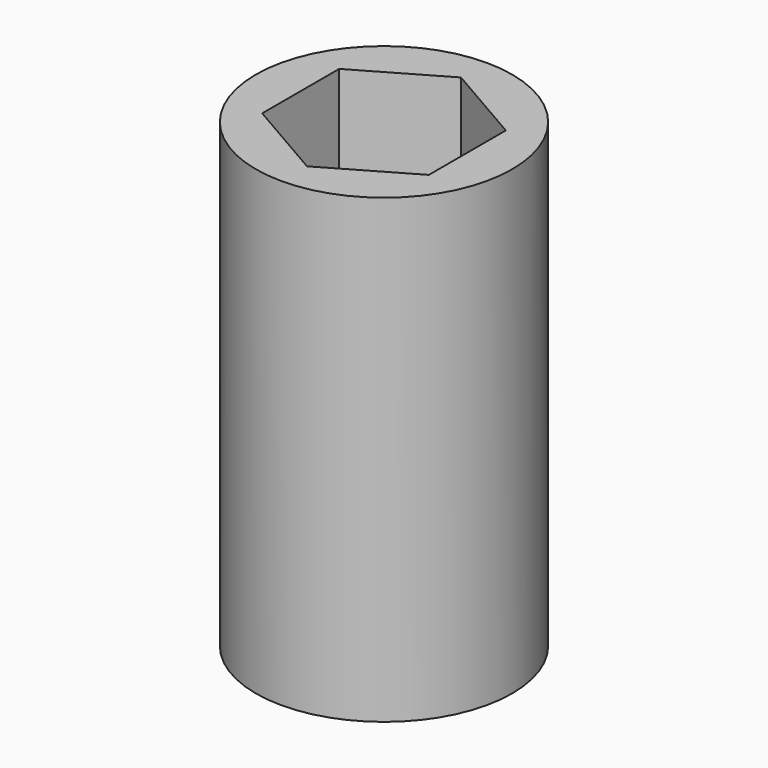
from build123d import *

# Parameters (mm, degrees)
F0_R     = 50
F1_DEPTH = 180
F2_R     = 25
F3_DEPTH = 180
F5_DEPTH = 50
F6_W     = 60
F6_H     = 60
F7_DEPTH = 50


with BuildPart() as f1:
    # F0 (on Top) → F1 (new body)
    with BuildSketch(Plane.XY):
        Circle(F0_R)
    extrude(amount=F1_DEPTH)

    # F2 (on Top) → F3 (cut, through all)
    with BuildSketch(Plane.XY):
        Circle(F2_R)
    extrude(amount=F3_DEPTH, mode=Mode.SUBTRACT)

    # F4 (on face) → F5 (cut)
    with BuildSketch(Plane.XY.offset(180)):
        Polygon((-32.5, 18.763884), (-32.5, -18.763884), (0, -37.527767), (32.5, -18.763884), (32.5, 18.763884), (0, 37.527767), align=None)
    extrude(amount=-F5_DEPTH, mode=Mode.SUBTRACT)

    # F6 (on face) → F7 (cut)
    with BuildSketch(Plane(origin=(0, 0, 0), x_dir=(1, 0, 0), z_dir=(0, 0, -1))):
        Rectangle(F6_W, F6_H)
    extrude(amount=-F7_DEPTH, mode=Mode.SUBTRACT)


solid = f1.part
